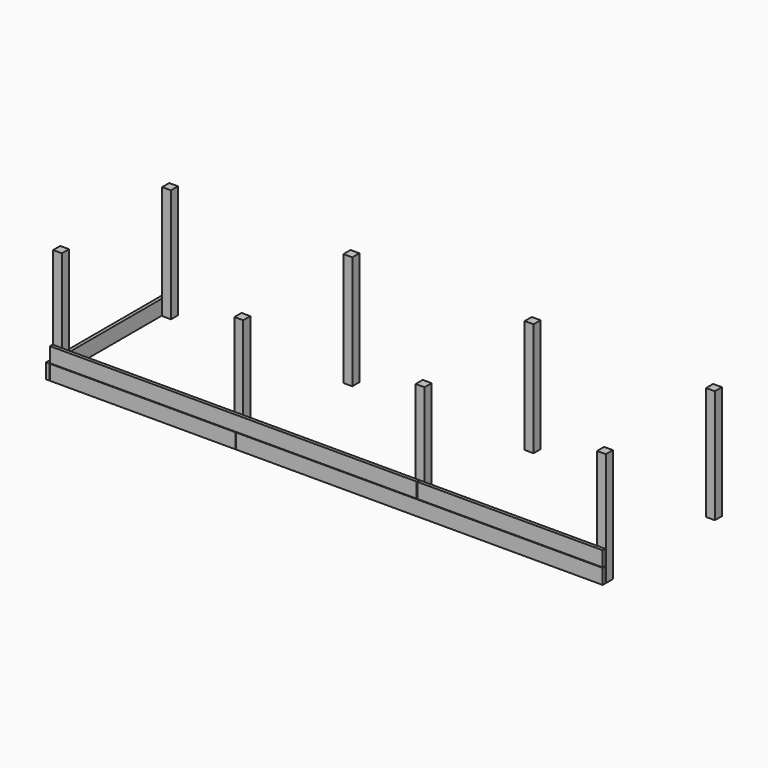
from build123d import *

# Parameters (mm, degrees)
F0_W     = 70
F0_H     = 70
F1_DEPTH = 900
F2_W     = 1469.166667
F2_H     = 119
F2_W_2   = 2905.833333
F3_DEPTH = 31
F4_W     = 4912.537255
F4_H     = 1258.728281
F5_DEPTH = 5
F6_W     = 1212
F6_H     = 119
F7_DEPTH = 31
F8_W     = 1212
F8_H     = 119
F9_DEPTH = 5


with BuildPart() as f1:
    # F0 (on Top) → F1 (new body)
    with BuildSketch(Plane.XY):
        with Locations((-2908.333333, 1115)):
            Rectangle(F0_W, F0_H)
        with Locations((-4345, 1115)):
            Rectangle(F0_W, F0_H)
        with Locations((-2908.333333, 35)):
            Rectangle(F0_W, F0_H)
        with Locations((-4345, 35)):
            Rectangle(F0_W, F0_H)
        with Locations((-35, 35)):
            Rectangle(F0_W, F0_H)
        with Locations((-1471.666667, 35)):
            Rectangle(F0_W, F0_H)
        with Locations((-35, 1115)):
            Rectangle(F0_W, F0_H)
        with Locations((-1471.666667, 1115)):
            Rectangle(F0_W, F0_H)
    extrude(amount=F1_DEPTH)


with BuildPart() as f3:
    # F2 (on face) → F3 (new body)
    with BuildSketch(Plane.XZ):
        with Locations((-3645.416667, 59.5)):
            Rectangle(F2_W, F2_H)
        with Locations((-2927.083333, 182.5)):
            Rectangle(F2_W_2, F2_H)
        with Locations((-1452.916667, 59.5)):
            Rectangle(F2_W_2, F2_H)
        with Locations((-734.583333, 182.5)):
            Rectangle(F2_W, F2_H)
    extrude(amount=F3_DEPTH)

    # F4 (on face) → F5 (cut)
    with BuildSketch(Plane(origin=(0, 0, 0), x_dir=(-1, 0, 0), z_dir=(0, 1, 0))):
        with Locations((2362.156074, 383.570425)):
            Rectangle(F4_W, F4_H)
    extrude(amount=-F5_DEPTH, mode=Mode.SUBTRACT)


with BuildPart() as f7:
    # F6 (on face) → F7 (new body)
    with BuildSketch(Plane(origin=(-4380, 0, 0), x_dir=(0, -1, 0), z_dir=(-1, 0, 0))):
        with Locations((-575, 59.5)):
            Rectangle(F6_W, F6_H)
    extrude(amount=F7_DEPTH)

    # F8 (on face) → F9 (cut)
    with BuildSketch(Plane.YZ.offset(-4380)):
        with Locations((575, 59.5)):
            Rectangle(F8_W, F8_H)
    extrude(amount=-F9_DEPTH, mode=Mode.SUBTRACT)


solid = Compound([f1.part, f3.part, f7.part])
